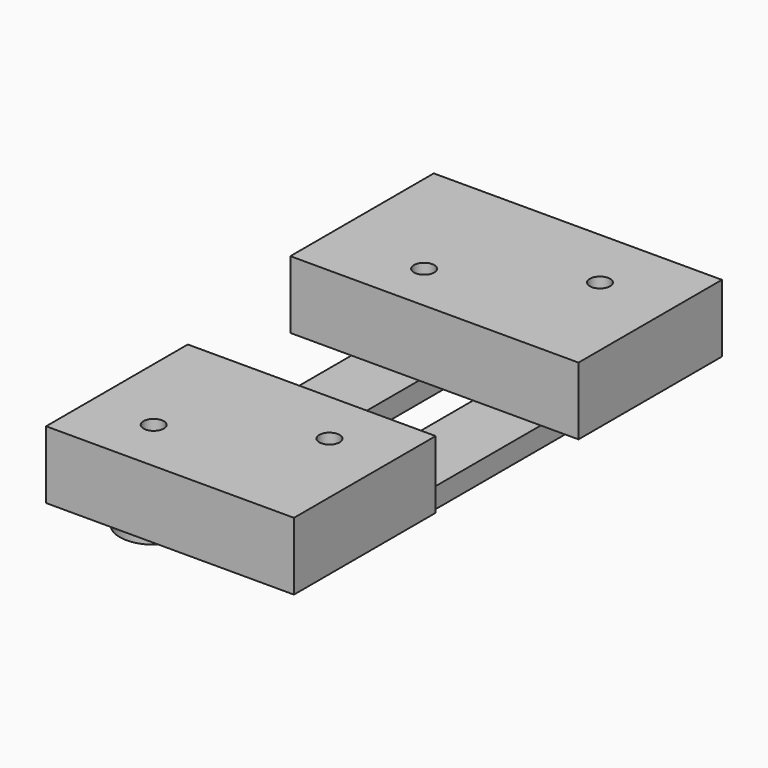
from build123d import *

# Parameters (mm, degrees)
F0_R     = 1.5
F1_DEPTH = 3
F3_R     = 1.5
F4_DEPTH = 10
F5_R     = 1.5
F6_DEPTH = 10


with BuildPart() as f1:
    # F0 (on Top) → F1 (new body)
    with BuildSketch(Plane.XY):
        with BuildLine():
            ThreePointArc((-29.375, 31.834475), (-34.375, 36.834475), (-39.375, 31.834475))
            Line((-39.375, 31.834475), (-39.375, -18.165525))
            ThreePointArc((-39.375, -18.165525), (-34.375, -23.165525), (-29.375, -18.165525))
            Line((-29.375, -18.165525), (-29.375, 31.834475))
        make_face()
        with Locations((-34.375, -18.165525)):
            Circle(F0_R, mode=Mode.SUBTRACT)
        with Locations((-34.375, 31.834475)):
            Circle(F0_R, mode=Mode.SUBTRACT)
    extrude(amount=F1_DEPTH)


with BuildPart() as f2_1:
    # F2: copy of F1
    add(f1.part.moved(Location((18, 10, 0))))


with BuildPart() as f4:
    # F3 (on face) → F4 (new body)
    with BuildSketch(Plane.XY.offset(3)):
        with BuildLine():
            Line((-39.375, 0), (-43.859545, 0))
            Line((-43.859545, 0), (-43.859545, -26.197944))
            Line((-43.859545, -26.197944), (-7.199317, -26.197944))
            Line((-7.199317, -26.197944), (-7.199317, 0))
            Line((-7.199317, 0), (-29.375, 0))
            Line((-29.375, 0), (-29.375, -18.165525))
            ThreePointArc((-29.375, -18.165525), (-34.375, -23.165525), (-39.375, -18.165525))
            Line((-39.375, -18.165525), (-39.375, 0))
        make_face()
        with Locations((-16.375, -8.165525)):
            Circle(F3_R, mode=Mode.SUBTRACT)
        with BuildLine():
            Line((-29.375, 0), (-39.375, 0))
            Line((-39.375, 0), (-39.375, -18.165525))
            ThreePointArc((-39.375, -18.165525), (-34.375, -23.165525), (-29.375, -18.165525))
            Line((-29.375, -18.165525), (-29.375, 0))
        make_face()
        with Locations((-34.375, -18.165525)):
            Circle(F3_R, mode=Mode.SUBTRACT)
    extrude(amount=F4_DEPTH)


with BuildPart() as f6:
    # F5 (on face) → F6 (new body)
    with BuildSketch(Plane.XY.offset(3)):
        with BuildLine():
            Line((-5.79333, 51.158044), (-48.408668, 51.158044))
            Line((-48.408668, 51.158044), (-48.408668, 24.646197))
            Line((-48.408668, 24.646197), (-39.375, 24.646197))
            Line((-39.375, 24.646197), (-39.375, 31.834475))
            ThreePointArc((-39.375, 31.834475), (-34.375, 36.834475), (-29.375, 31.834475))
            Line((-29.375, 31.834475), (-29.375, 24.646197))
            Line((-29.375, 24.646197), (-5.79333, 24.646197))
            Line((-5.79333, 24.646197), (-5.79333, 51.158044))
        make_face()
        with Locations((-16.375, 41.834475)):
            Circle(F5_R, mode=Mode.SUBTRACT)
        with BuildLine():
            Line((-39.375, 31.834475), (-39.375, 24.646197))
            Line((-39.375, 24.646197), (-29.375, 24.646197))
            Line((-29.375, 24.646197), (-29.375, 31.834475))
            ThreePointArc((-29.375, 31.834475), (-34.375, 36.834475), (-39.375, 31.834475))
        make_face()
        with Locations((-34.375, 31.834475)):
            Circle(F5_R, mode=Mode.SUBTRACT)
    extrude(amount=F6_DEPTH)


solid = Compound([f1.part, f2_1.part, f4.part, f6.part])
